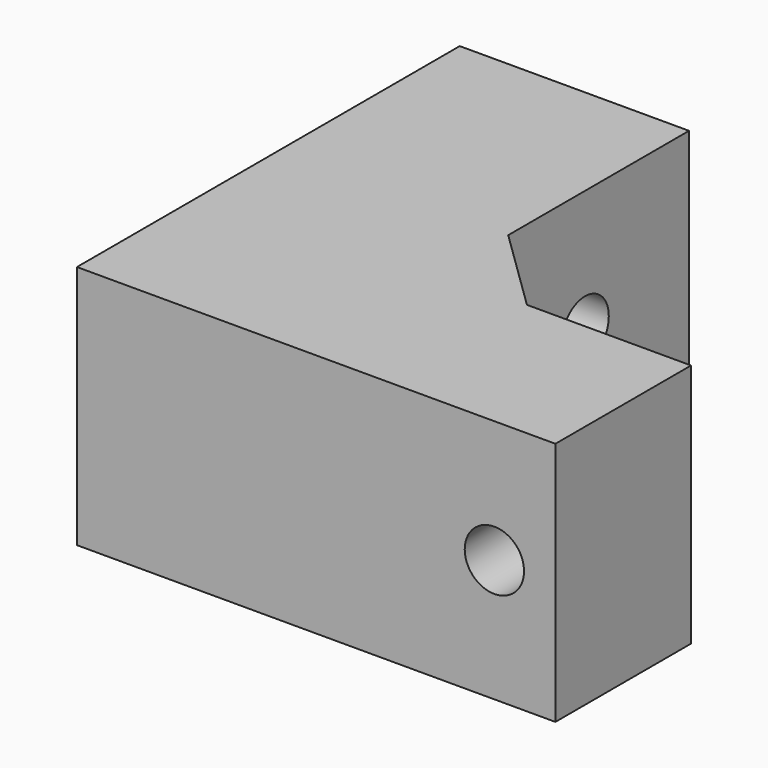
from build123d import *

# Parameters (mm, degrees)
F0_W     = 11.43
F0_H     = 15.24
F0_W_2   = 4.0305707882
F1_DEPTH = 16.51
F3_D     = 4
F5_D     = 4


with BuildPart() as f1:
    # F0 (on Top) → F1 (new body)
    with BuildSketch(Plane.XY):
        Polygon((-32.258, 0), (0, 0), (0, 11.43), (-11.0645864088, 11.43), (-16.7974292118, 17.018), (-20.828, 17.018), (-32.258, 17.018), align=None)
        with Locations((-26.543, 24.638)):
            Rectangle(F0_W, F0_H)
        with Locations((-18.8127146059, 24.638)):
            Rectangle(F0_W_2, F0_H)
    extrude(amount=F1_DEPTH)

    # F3 (through all)
    with Locations(Plane.XZ):
        with Locations((-4.1148, 8.255)):
            Hole(F3_D / 2)

    # F5 (through all)
    with Locations(Plane(origin=(-32.258, 0, 0), x_dir=(0, -1, 0), z_dir=(-1, 0, 0))):
        with Locations((-23.495, 8.255)):
            Hole(F5_D / 2)


solid = f1.part
